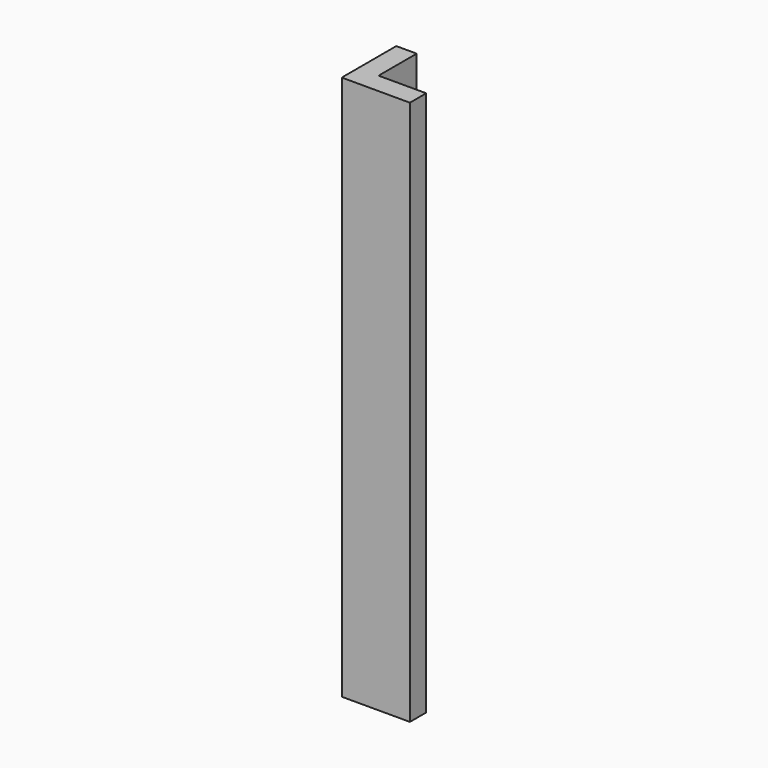
from build123d import *

# Parameters (mm, degrees)
F0_W     = 63.5
F0_H     = 508
F1_DEPTH = 19.05
F2_W     = 44.45
F2_H     = 508
F3_DEPTH = 19.05


with BuildPart() as f1:
    # F0 (on Front) → F1 (new body)
    with BuildSketch(Plane.XZ):
        Rectangle(F0_W, F0_H)
    extrude(amount=F1_DEPTH)

    # F2 (on face) → F3 (join)
    with BuildSketch(Plane(origin=(-31.75, 0, 0), x_dir=(0, -1, 0), z_dir=(-1, 0, 0))):
        with Locations((-22.225, 0)):
            Rectangle(F2_W, F2_H)
    extrude(amount=-F3_DEPTH)


solid = f1.part
